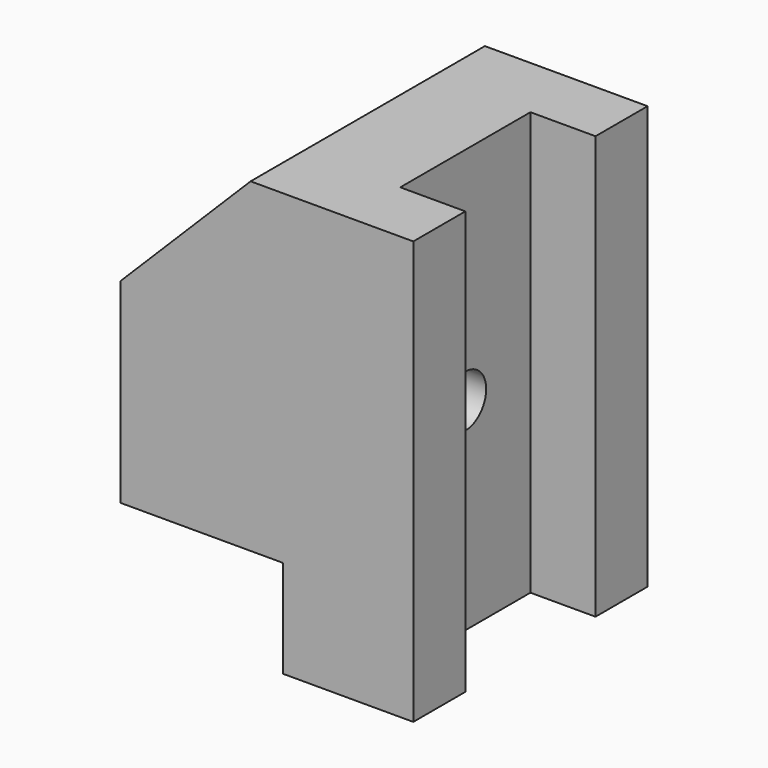
from build123d import *

# Parameters (mm, degrees)
F1_DEPTH = 22.5
F2_SIZE  = 20
F3_W     = 10
F3_H     = 25
F4_DEPTH = 65.001
F5_R     = 4
F6_DEPTH = 45.001


with BuildPart() as f1:
    # F0 (on Front) → F1 (new body, symmetric)
    with BuildSketch(Plane.XZ):
        Polygon((-20, 0), (0, 0), (0, 65), (-45, 65), (-45, 15), (-20, 15), align=None)
    extrude(amount=F1_DEPTH, both=True)

    # F2
    f2_edges = [f1.edges().sort_by_distance(p)[0] for p in [
        (-45, 0, 65),
    ]]
    chamfer(f2_edges, length=F2_SIZE)

    # F3 (on face) → F4 (cut, through all)
    with BuildSketch(Plane.XY.offset(65)):
        with Locations((-5, 0)):
            Rectangle(F3_W, F3_H)
    extrude(amount=-F4_DEPTH, mode=Mode.SUBTRACT)

    # F5 (on face) → F6 (cut, through all)
    with BuildSketch(Plane(origin=(-45, 0, 0), x_dir=(0, -1, 0), z_dir=(-1, 0, 0))):
        with Locations((0, 31)):
            Circle(F5_R)
    extrude(amount=-F6_DEPTH, mode=Mode.SUBTRACT)


solid = f1.part
